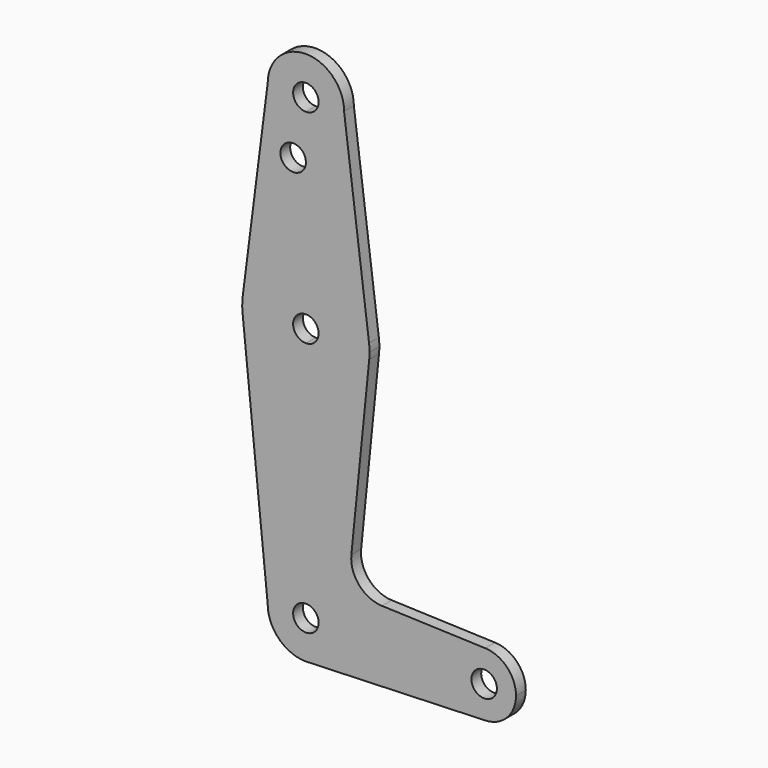
from build123d import *

# Parameters (mm, degrees)
F0_R     = 3.175
F1_DEPTH = 3.048


with BuildPart() as f1:
    # F0 (on Front) → F1 (new body)
    with BuildSketch(Plane.XZ):
        with BuildLine():
            Line((11.340834429, 17.5898916185), (15.7942028036, 61.9003804205))
            ThreePointArc((15.7942028036, 61.9003804205), (10.644756084, 51.722700101), (0, 47.625))
            Line((0, 47.625), (0, 9.525))
            ThreePointArc((0, 9.525), (6.7351920908, 6.7351920908), (9.525, 0))
            Line((9.525, 0), (36.5125, 0))
            ThreePointArc((36.5125, 0), (38.9380895153, 5.7116327839), (44.7324052746, 7.9324746146))
            Line((44.7324052746, 7.9324746146), (18.9683264873, 8.8497056297))
            ThreePointArc((18.9683264873, 8.8497056297), (13.2612027952, 11.5674627234), (11.340834429, 17.5898916185))
        make_face()
        with BuildLine():
            ThreePointArc((0, 47.625), (-10.644756084, 51.722700101), (-15.7942028036, 61.9003804205))
            Line((-15.7942028036, 61.9003804205), (-9.525, 0))
            ThreePointArc((-9.525, 0), (-6.7351920908, 6.7351920908), (0, 9.525))
            Line((0, 9.525), (0, 47.625))
        make_face()
        with BuildLine():
            Line((36.5125, 0), (9.525, 0))
            ThreePointArc((9.525, 0), (6.9705567315, -6.4912990883), (0.6773435479, -9.500885786))
            Line((0.6773435479, -9.500885786), (44.7324052746, -7.9324746146))
            ThreePointArc((44.7324052746, -7.9324746146), (38.9380895153, -5.7116327839), (36.5125, 0))
        make_face()
        with BuildLine():
            ThreePointArc((0, 104.775), (6.7351920908, 107.5648079092), (9.525, 114.3))
            ThreePointArc((9.525, 114.3), (0, 123.825), (-9.525, 114.3))
            ThreePointArc((-9.525, 114.3), (-6.7351920908, 107.5648079092), (0, 104.775))
        make_face()
        with BuildLine():
            ThreePointArc((3.175, 114.3), (2.2450640303, 112.0549359697), (0, 111.125))
            ThreePointArc((0, 111.125), (-2.2450640303, 116.5450640303), (3.175, 114.3))
        make_face(mode=Mode.SUBTRACT)
        with BuildLine():
            ThreePointArc((0, 79.375), (-10.4912828548, 75.4142187767), (-15.7474569047, 65.5082893304))
            ThreePointArc((-15.7474569047, 65.5082893304), (-15.873667691, 63.7056672947), (-15.7942028036, 61.9003804205))
            ThreePointArc((-15.7942028036, 61.9003804205), (-10.644756084, 51.722700101), (0, 47.625))
            Line((0, 47.625), (0, 60.325))
            ThreePointArc((0, 60.325), (-3.175, 63.5), (0, 66.675))
            Line((0, 66.675), (0, 79.375))
        make_face()
        with BuildLine():
            Line((15.7474569047, 65.5082893304), (9.525, 114.3))
            ThreePointArc((9.525, 114.3), (6.7351920908, 107.5648079092), (0, 104.775))
            Line((0, 104.775), (0, 100.0252))
            Line((0, 100.0252), (0, 79.375))
            ThreePointArc((0, 79.375), (10.4912828548, 75.4142187767), (15.7474569047, 65.5082893304))
        make_face()
        with BuildLine():
            ThreePointArc((9.525, 0), (6.7351920908, 6.7351920908), (0, 9.525))
            Line((0, 9.525), (0, 3.175))
            ThreePointArc((0, 3.175), (2.2450640303, 2.2450640303), (3.175, 0))
            Line((3.175, 0), (9.525, 0))
        make_face()
        with BuildLine():
            ThreePointArc((0, 9.525), (-6.7351920908, 6.7351920908), (-9.525, 0))
            ThreePointArc((-9.525, 0), (-6.7351920908, -6.7351920908), (0, -9.525))
            Line((0, -9.525), (0.6773435479, -9.500885786))
            ThreePointArc((0.6773435479, -9.500885786), (6.9705567315, -6.4912990883), (9.525, 0))
            Line((9.525, 0), (3.175, 0))
            ThreePointArc((3.175, 0), (-2.2450640303, -2.2450640303), (0, 3.175))
            Line((0, 3.175), (0, 9.525))
        make_face()
        with BuildLine():
            ThreePointArc((52.3875, 0), (50.1616327839, 5.5119104847), (44.7324052746, 7.9324746146))
            ThreePointArc((44.7324052746, 7.9324746146), (38.9380895153, 5.7116327839), (36.5125, 0))
            ThreePointArc((36.5125, 0), (38.9380895153, -5.7116327839), (44.7324052746, -7.9324746146))
            ThreePointArc((44.7324052746, -7.9324746146), (50.1616327839, -5.5119104847), (52.3875, 0))
        make_face()
        with BuildLine():
            ThreePointArc((47.625, 0), (44.45, -3.175), (41.275, 0))
            ThreePointArc((41.275, 0), (44.45, 3.175), (47.625, 0))
        make_face(mode=Mode.SUBTRACT)
        with BuildLine():
            Line((0.6773435479, -9.500885786), (0, -9.525))
            ThreePointArc((0, -9.525), (0.3388863295, -9.5189695375), (0.6773435479, -9.500885786))
        make_face()
        with BuildLine():
            ThreePointArc((15.875, 63.5), (15.8430821396, 64.5061676396), (15.7474569047, 65.5082893304))
            ThreePointArc((15.7474569047, 65.5082893304), (10.4912828548, 75.4142187767), (0, 79.375))
            Line((0, 79.375), (0, 66.675))
            ThreePointArc((0, 66.675), (2.2450640303, 65.7450640303), (3.175, 63.5))
            ThreePointArc((3.175, 63.5), (2.2450640303, 61.2549359697), (0, 60.325))
            Line((0, 60.325), (0, 47.625))
            ThreePointArc((0, 47.625), (10.644756084, 51.722700101), (15.7942028036, 61.9003804205))
            ThreePointArc((15.7942028036, 61.9003804205), (15.8547878338, 62.6991705884), (15.875, 63.5))
        make_face()
        with BuildLine():
            ThreePointArc((0, 104.775), (-6.7351920908, 107.5648079092), (-9.525, 114.3))
            Line((-9.525, 114.3), (-15.7474569047, 65.5082893304))
            ThreePointArc((-15.7474569047, 65.5082893304), (-10.4912828548, 75.4142187767), (0, 79.375))
            Line((0, 79.375), (0, 100.0252))
            Line((0, 100.0252), (0, 104.775))
        make_face()
        with Locations((-3.175, 100.0252)):
            Circle(F0_R, mode=Mode.SUBTRACT)
    extrude(amount=F1_DEPTH)


solid = f1.part
